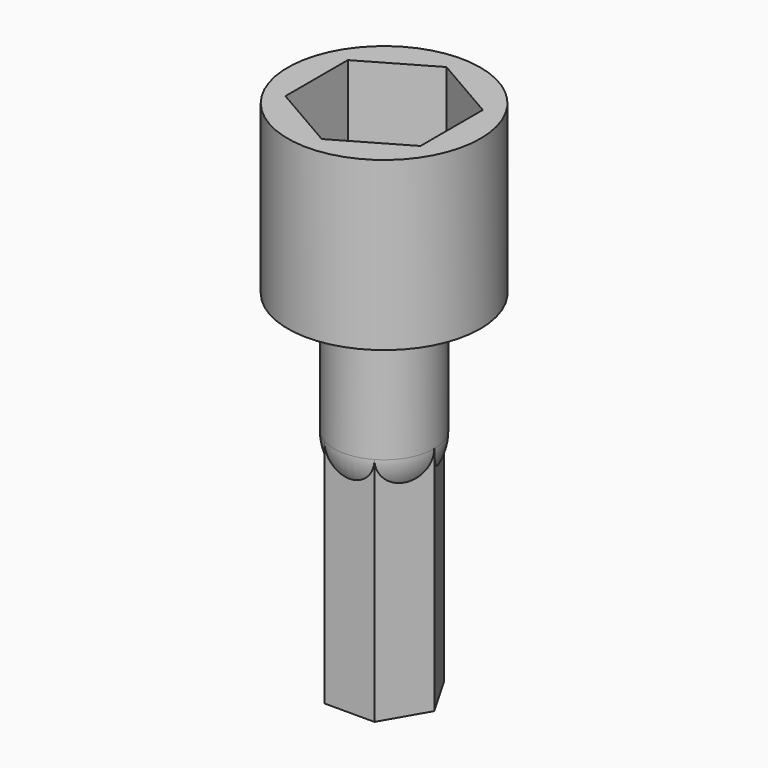
from build123d import *

# Parameters (mm, degrees)
F0_R     = 6.9596
F1_DEPTH = 12.0904
F3_DEPTH = 8.636
F5_DEPTH = 25.4


with BuildPart() as f1:
    # F0 (on Top) → F1 (new body)
    with BuildSketch(Plane.XY):
        Circle(F0_R)
    extrude(amount=F1_DEPTH)

    # F2 (on face) → F3 (cut)
    with BuildSketch(Plane.XY.offset(12.0904)):
        Polygon((4.8768, -2.815622), (4.8768, 2.815622), (0, 5.631244), (-4.8768, 2.815622), (-4.8768, -2.815622), (0, -5.631244), align=None)
        Polygon((4.8768, -2.815622), (4.8768, 2.815622), (0, 5.631244), (-4.8768, 2.815622), (-4.8768, -2.815622), (0, -5.631244), align=None)
    extrude(amount=-F3_DEPTH, mode=Mode.SUBTRACT)

    # F4 (on face) → F5 (join)
    with BuildSketch(Plane(origin=(0, 0, 0), x_dir=(1, 0, 0), z_dir=(0, 0, -1))):
        Polygon((-1.81109, -3.1369), (1.81109, -3.1369), (3.62218, 0), (1.81109, 3.1369), (-1.81109, 3.1369), (-3.62218, 0), align=None)
    extrude(amount=F5_DEPTH)

    # F6 (on Front) → F7 (revolve)
    with BuildSketch(Plane.XZ):
        with BuildLine():
            Line((0, 0), (-3.62218, 0))
            Line((-3.62218, 0), (-3.62218, -8.7122))
            ThreePointArc((-3.62218, -8.7122), (-2.561268, -11.273468), (0, -12.33438))
            Line((0, -12.33438), (0, 0))
        make_face()
    revolve(axis=Axis((0, 0, -6.16719), (0, 0, -1)))


solid = f1.part
